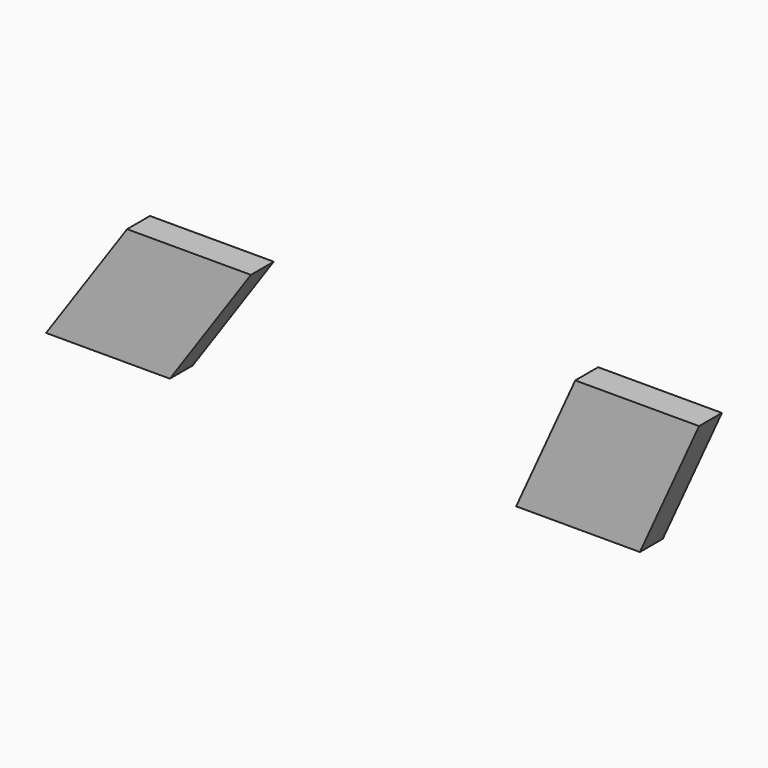
from build123d import *

# Parameters (mm, degrees)
F2_DEPTH = 1.27
F3_DEPTH = 1.27


with BuildPart() as f2:
    # F0 (on Front) → F2 (new body, symmetric)
    with BuildSketch(Plane.XZ):
        Polygon((-24.1398429819, 36.3422582364), (-31.3389899048, 25.8798357835), (-20.3407899048, 25.8798357835), (-13.1416429819, 36.3422582364), align=None)
    extrude(amount=F2_DEPTH, both=True)


with BuildPart() as f3:
    # F1 (on Front) → F3 (new body, symmetric)
    with BuildSketch(Plane.XZ):
        Polygon((26.6816595895, 37.4615788128), (15.6834595895, 37.4615788128), (10.4281619181, 25.8999246757), (21.4263619181, 25.8999246757), align=None)
    extrude(amount=F3_DEPTH, both=True)


solid = Compound([f2.part, f3.part])
